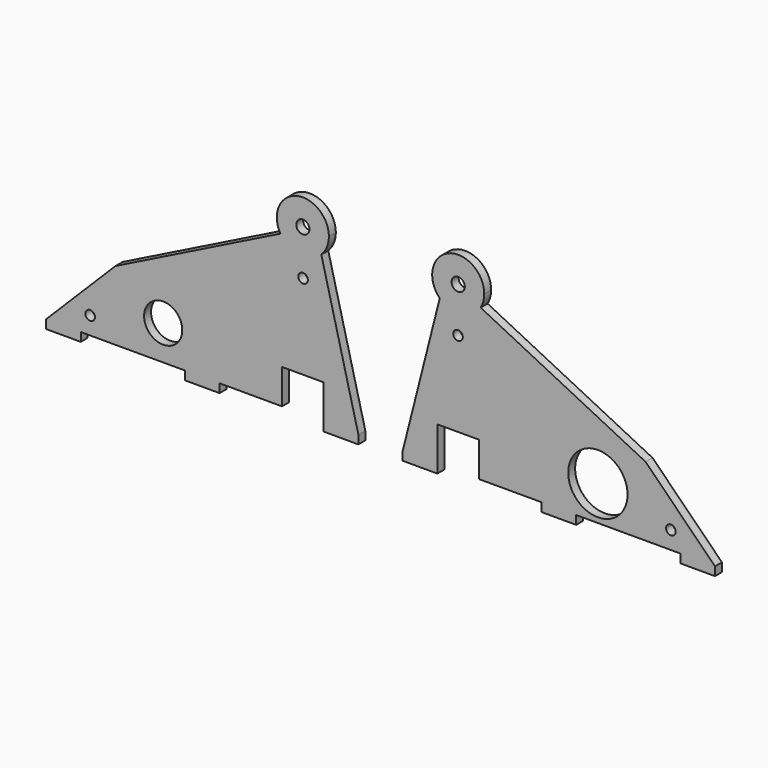
from build123d import *

# Parameters (mm, degrees)
F0_R     = 1.7526
F0_R_2   = 2.413
F0_R_3   = 10.8585
F1_DEPTH = 3.175


with BuildPart() as f1:
    # F0 (on Front) → F1 (new body)
    with BuildSketch(Plane.XZ):
        Polygon((-50.8, -38.1), (-50.8, -34.925), (-38.1, -34.925), (-38.1, -22.225), (-38.1, -9.525), (-63.5, -34.925), (-63.5, -38.1), align=None)
        with Locations((-47.366794, -28.45455)):
            Circle(F0_R, mode=Mode.SUBTRACT)
        with BuildLine():
            ThreePointArc((-13.6525, -22.225), (-20.6375, -15.24), (-27.6225, -22.225))
            ThreePointArc((-27.6225, -22.225), (-20.6375, -29.21), (-13.6525, -22.225))
        make_face()
        with BuildLine():
            Line((-38.1, -22.225), (-38.1, -34.925))
            Line((-38.1, -34.925), (-12.7, -34.925))
            Line((-12.7, -34.925), (-12.7, -38.1))
            Line((-12.7, -38.1), (0, -38.1))
            Line((0, -38.1), (0, -34.925))
            Line((0, -34.925), (22.86, -34.925))
            Line((22.86, -34.925), (22.86, -22.225))
            Line((22.86, -22.225), (38.1, -22.225))
            Line((38.1, -22.225), (38.1, -34.925))
            Line((38.1, -34.925), (38.1, -38.1))
            Line((38.1, -38.1), (50.8, -38.1))
            Line((50.8, -38.1), (50.8, -34.925))
            Line((50.8, -34.925), (37.237217, 18.664675))
            ThreePointArc((37.237217, 18.664675), (29.2968, 15.926544), (22.276431, 20.537618))
            Line((22.276431, 20.537618), (-38.1, -9.525))
            Line((-38.1, -9.525), (-38.1, -22.225))
        make_face()
        with BuildLine():
            ThreePointArc((-13.6525, -22.225), (-20.6375, -29.21), (-27.6225, -22.225))
            ThreePointArc((-27.6225, -22.225), (-20.6375, -15.24), (-13.6525, -22.225))
        make_face(mode=Mode.SUBTRACT)
        with Locations((30.54638, 8.86777)):
            Circle(F0_R, mode=Mode.SUBTRACT)
        with BuildLine():
            ThreePointArc((40.005, 25.37777), (27.971352, 34.566475), (22.276431, 20.537618))
            ThreePointArc((22.276431, 20.537618), (29.2968, 15.926544), (37.237217, 18.664675))
            ThreePointArc((37.237217, 18.664675), (39.28591, 21.747127), (40.005, 25.37777))
        make_face()
        with Locations((30.48, 25.37777)):
            Circle(F0_R_2, mode=Mode.SUBTRACT)
        Polygon((181.319503, -38.1), (181.319503, -34.925), (155.919503, -9.525), (155.919503, -22.225), (155.919503, -34.925), (168.619503, -34.925), (168.619503, -38.1), align=None)
        with Locations((165.186297, -28.45455)):
            Circle(F0_R, mode=Mode.SUBTRACT)
        with Locations((138.457003, -22.225)):
            Circle(F0_R_3)
        with BuildLine():
            Line((155.919503, -22.225), (155.919503, -9.525))
            Line((155.919503, -9.525), (95.543072, 20.537618))
            ThreePointArc((95.543072, 20.537618), (88.522703, 15.926544), (80.582286, 18.664675))
            Line((80.582286, 18.664675), (67.019503, -34.925))
            Line((67.019503, -34.925), (67.019503, -38.1))
            Line((67.019503, -38.1), (79.719503, -38.1))
            Line((79.719503, -38.1), (79.719503, -34.925))
            Line((79.719503, -34.925), (79.719503, -22.225))
            Line((79.719503, -22.225), (94.959503, -22.225))
            Line((94.959503, -22.225), (94.959503, -34.925))
            Line((94.959503, -34.925), (117.819503, -34.925))
            Line((117.819503, -34.925), (117.819503, -38.1))
            Line((117.819503, -38.1), (130.519503, -38.1))
            Line((130.519503, -38.1), (130.519503, -34.925))
            Line((130.519503, -34.925), (155.919503, -34.925))
            Line((155.919503, -34.925), (155.919503, -22.225))
        make_face()
        with Locations((138.457003, -22.225)):
            Circle(F0_R_3, mode=Mode.SUBTRACT)
        with Locations((87.273123, 8.86777)):
            Circle(F0_R, mode=Mode.SUBTRACT)
        with BuildLine():
            ThreePointArc((80.582286, 18.664675), (88.522703, 15.926544), (95.543072, 20.537618))
            ThreePointArc((95.543072, 20.537618), (96.528209, 22.869122), (96.864503, 25.37777))
            ThreePointArc((96.864503, 25.37777), (83.70886, 34.18368), (80.582286, 18.664675))
        make_face()
        with Locations((87.339503, 25.37777)):
            Circle(F0_R_2, mode=Mode.SUBTRACT)
    extrude(amount=F1_DEPTH)


solid = f1.part
